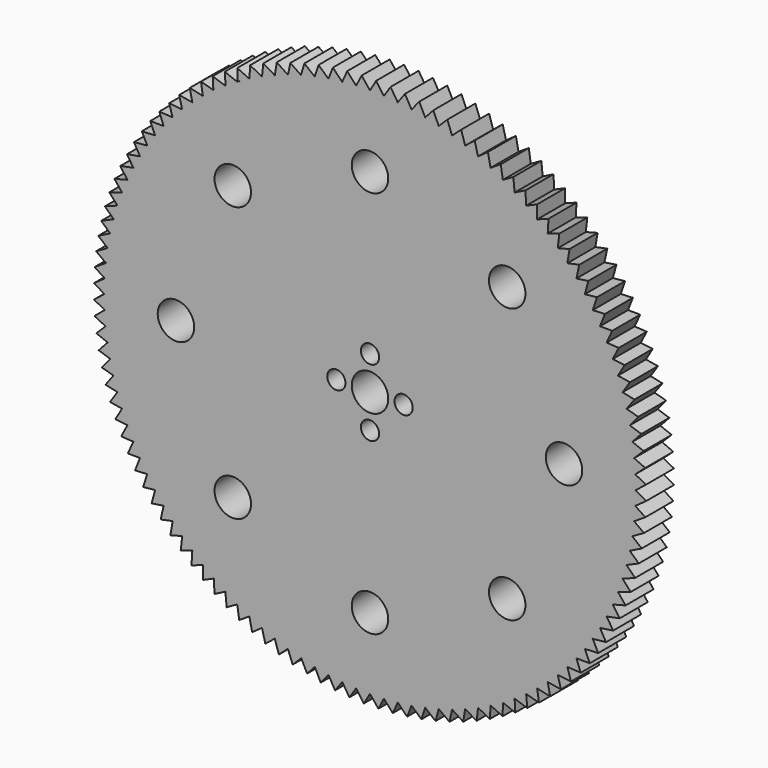
from build123d import *

# Parameters (mm, degrees)
F1_DEPTH = 6.096
F2_D     = 6.35
F3_D     = 3.175
F4_D     = 6.35


with BuildPart() as f1:
    # F0 (on Front) → F1 (new body)
    with BuildSketch(Plane.XZ):
        with BuildLine():
            ThreePointArc((46.1647385329, -2.4193914277), (46.2122513144, -1.2101103885), (46.2280925271, 0))
            ThreePointArc((46.2280925271, 0), (46.2122513144, 1.2101103885), (46.1647385329, 2.4193914277))
            ThreePointArc((46.1647385329, 2.4193914277), (46.0855867457, 3.6270143369), (45.9748501993, 4.8321514717))
            ThreePointArc((45.9748501993, 4.8321514717), (45.8326047871, 6.0339768912), (45.658947997, 7.2316669243))
            ThreePointArc((45.658947997, 7.2316669243), (45.4539988446, 8.4244007342), (45.2178977919, 9.6113608806))
            ThreePointArc((45.2178977919, 9.6113608806), (44.9508066507, 10.7917338804), (44.652908472, 11.9647107648))
            ThreePointArc((44.652908472, 11.9647107648), (44.3244074203, 13.1294876341), (43.9655286338, 14.2852662084))
            ThreePointArc((43.9655286338, 14.2852662084), (43.5765180701, 15.4312543748), (43.1576423376, 16.5666667303))
            ThreePointArc((43.1576423376, 16.5666667303), (42.7091885128, 17.69072512), (42.2314639436, 18.8026591703))
            ThreePointArc((42.2314639436, 18.8026591703), (41.7247960385, 19.9017068172), (41.1895320424, 20.9871148284))
            ThreePointArc((41.1895320424, 20.9871148284), (40.6260387985, 22.0581393194), (40.034702497, 23.1140462636))
            ThreePointArc((40.034702497, 23.1140462636), (39.4159284101, 24.154111995), (38.7701406147, 25.1776237046))
            ThreePointArc((38.7701406147, 25.1776237046), (38.0977817016, 26.1838799285), (37.399312472, 27.172191029))
            ThreePointArc((37.399312472, 27.172191029), (36.6752116217, 28.1418796672), (35.9259754133, 29.0922812667))
            ThreePointArc((35.9259754133, 29.0922812667), (35.1521173359, 30.0227444698), (34.3541677532, 30.9326315835))
            ThreePointArc((34.3541677532, 30.9326315835), (33.53267354, 31.8213190166), (32.6881977072, 32.6881977072))
            ThreePointArc((32.6881977072, 32.6881977072), (31.8213190166, 33.53267354), (30.9326315835, 34.3541677532))
            ThreePointArc((30.9326315835, 34.3541677532), (30.0227444698, 35.1521173359), (29.0922812667, 35.9259754133))
            ThreePointArc((29.0922812667, 35.9259754133), (28.1418796672, 36.6752116217), (27.172191029, 37.399312472))
            ThreePointArc((27.172191029, 37.399312472), (26.1838799285, 38.0977817016), (25.1776237046, 38.7701406147))
            ThreePointArc((25.1776237046, 38.7701406147), (24.154111995, 39.4159284101), (23.1140462636, 40.034702497))
            ThreePointArc((23.1140462636, 40.034702497), (22.0581393194, 40.6260387985), (20.9871148284, 41.1895320424))
            ThreePointArc((20.9871148284, 41.1895320424), (19.9017068172, 41.7247960385), (18.8026591703, 42.2314639436))
            ThreePointArc((18.8026591703, 42.2314639436), (17.69072512, 42.7091885128), (16.5666667303, 43.1576423376))
            ThreePointArc((16.5666667303, 43.1576423376), (15.4312543748, 43.5765180701), (14.2852662084, 43.9655286338))
            ThreePointArc((14.2852662084, 43.9655286338), (13.1294876341, 44.3244074203), (11.9647107648, 44.652908472))
            ThreePointArc((11.9647107648, 44.652908472), (10.7917338804, 44.9508066507), (9.6113608806, 45.2178977919))
            ThreePointArc((9.6113608806, 45.2178977919), (8.4244007342, 45.4539988446), (7.2316669243, 45.658947997))
            ThreePointArc((7.2316669243, 45.658947997), (6.0339768912, 45.8326047871), (4.8321514717, 45.9748501993))
            ThreePointArc((4.8321514717, 45.9748501993), (3.6270143369, 46.0855867457), (2.4193914277, 46.1647385329))
            ThreePointArc((2.4193914277, 46.1647385329), (1.2101103885, 46.2122513144), (0, 46.2280925271))
            ThreePointArc((0, 46.2280925271), (-1.2101103885, 46.2122513144), (-2.4193914277, 46.1647385329))
            ThreePointArc((-2.4193914277, 46.1647385329), (-3.6270143369, 46.0855867457), (-4.8321514717, 45.9748501993))
            ThreePointArc((-4.8321514717, 45.9748501993), (-6.0339768912, 45.8326047871), (-7.2316669243, 45.658947997))
            ThreePointArc((-7.2316669243, 45.658947997), (-8.4244007342, 45.4539988446), (-9.6113608806, 45.2178977919))
            ThreePointArc((-9.6113608806, 45.2178977919), (-10.7917338804, 44.9508066507), (-11.9647107648, 44.652908472))
            ThreePointArc((-11.9647107648, 44.652908472), (-11.9988349624, 44.6437509428), (-12.0329521511, 44.6345673355))
            ThreePointArc((-12.0329521511, 44.6345673355), (-13.156832729, 44.3162982574), (-14.2723132545, 43.9697351943))
            ThreePointArc((-14.2723132545, 43.9697351943), (-14.2787898864, 43.9676323911), (-14.2852662084, 43.9655286338))
            ThreePointArc((-14.2852662084, 43.9655286338), (-15.4312543748, 43.5765180701), (-16.5666667303, 43.1576423376))
            ThreePointArc((-16.5666667303, 43.1576423376), (-17.69072512, 42.7091885128), (-18.8026591703, 42.2314639436))
            Line((-18.8026591703, 42.2314639436), (-20.9871148284, 41.1895320424))
            Line((-20.9871148284, 41.1895320424), (-22.5210335272, 40.3712718101))
            ThreePointArc((-22.5210335272, 40.3712718101), (-22.8181604562, 40.2040805403), (-23.1140462636, 40.034702497))
            ThreePointArc((-23.1140462636, 40.034702497), (-24.1339426401, 39.4282811107), (-25.1379389445, 38.7958833424))
            ThreePointArc((-25.1379389445, 38.7958833424), (-25.1577846172, 38.7830170545), (-25.1776237046, 38.7701406147))
            ThreePointArc((-25.1776237046, 38.7701406147), (-26.1838799285, 38.0977817016), (-27.172191029, 37.399312472))
            ThreePointArc((-27.172191029, 37.399312472), (-28.1418796672, 36.6752116217), (-29.0922812667, 35.9259754133))
            ThreePointArc((-29.0922812667, 35.9259754133), (-30.0227444698, 35.1521173359), (-30.9326315835, 34.3541677532))
            ThreePointArc((-30.9326315835, 34.3541677532), (-31.8213190166, 33.53267354), (-32.6881977072, 32.6881977072))
            ThreePointArc((-32.6881977072, 32.6881977072), (-33.53267354, 31.8213190166), (-34.3541677532, 30.9326315835))
            ThreePointArc((-34.3541677532, 30.9326315835), (-35.1521173359, 30.0227444698), (-35.9259754133, 29.0922812667))
            ThreePointArc((-35.9259754133, 29.0922812667), (-36.6752116217, 28.1418796672), (-37.399312472, 27.172191029))
            ThreePointArc((-37.399312472, 27.172191029), (-38.0977817016, 26.1838799285), (-38.7701406147, 25.1776237046))
            ThreePointArc((-38.7701406147, 25.1776237046), (-39.4159284101, 24.154111995), (-40.034702497, 23.1140462636))
            ThreePointArc((-40.034702497, 23.1140462636), (-40.6260387985, 22.0581393194), (-41.1895320424, 20.9871148284))
            ThreePointArc((-41.1895320424, 20.9871148284), (-41.7247960385, 19.9017068172), (-42.2314639436, 18.8026591703))
            ThreePointArc((-42.2314639436, 18.8026591703), (-42.7091885128, 17.69072512), (-43.1576423376, 16.5666667303))
            ThreePointArc((-43.1576423376, 16.5666667303), (-43.1595677807, 16.5616499082), (-43.1614926405, 16.5566328623))
            ThreePointArc((-43.1614926405, 16.5566328623), (-43.5783115282, 15.4261888696), (-43.9655286338, 14.2852662084))
            Line((-43.9655286338, 14.2852662084), (-44.4963325502, 12.534469605))
            ThreePointArc((-44.4963325502, 12.534469605), (-44.5755308436, 12.2498403542), (-44.652908472, 11.9647107648))
            ThreePointArc((-44.652908472, 11.9647107648), (-44.9508066507, 10.7917338804), (-45.2178977919, 9.6113608806))
            ThreePointArc((-45.2178977919, 9.6113608806), (-45.219148542, 9.6054746803), (-45.2203985258, 9.5995883173))
            ThreePointArc((-45.2203985258, 9.5995883173), (-45.4550950833, 8.4184838101), (-45.658947997, 7.2316669243))
            ThreePointArc((-45.658947997, 7.2316669243), (-45.8307510282, 6.0480409128), (-45.9718759293, 4.8603664713))
            ThreePointArc((-45.9718759293, 4.8603664713), (-45.9733652288, 4.8462591997), (-45.9748501993, 4.8321514717))
            ThreePointArc((-45.9748501993, 4.8321514717), (-46.0855867457, 3.6270143369), (-46.1647385329, 2.4193914277))
            ThreePointArc((-46.1647385329, 2.4193914277), (-46.2122513144, 1.2101103885), (-46.2280925271, 0))
            ThreePointArc((-46.2280925271, 0), (-46.2122513144, -1.2101103885), (-46.1647385329, -2.4193914277))
            ThreePointArc((-46.1647385329, -2.4193914277), (-46.0855867457, -3.6270143369), (-45.9748501993, -4.8321514717))
            ThreePointArc((-45.9748501993, -4.8321514717), (-45.9710992472, -4.8677071295), (-45.9673207974, -4.9032598756))
            ThreePointArc((-45.9673207974, -4.9032598756), (-45.8279243817, -6.0694221764), (-45.658947997, -7.2316669243))
            ThreePointArc((-45.658947997, -7.2316669243), (-45.4539988446, -8.4244007342), (-45.2178977919, -9.6113608806))
            ThreePointArc((-45.2178977919, -9.6113608806), (-44.9508066507, -10.7917338804), (-44.652908472, -11.9647107648))
            ThreePointArc((-44.652908472, -11.9647107648), (-44.3244074203, -13.1294876341), (-43.9655286338, -14.2852662084))
            ThreePointArc((-43.9655286338, -14.2852662084), (-43.5765180701, -15.4312543748), (-43.1576423376, -16.5666667303))
            ThreePointArc((-43.1576423376, -16.5666667303), (-42.7091885128, -17.69072512), (-42.2314639436, -18.8026591703))
            ThreePointArc((-42.2314639436, -18.8026591703), (-41.7247960385, -19.9017068172), (-41.1895320424, -20.9871148284))
            ThreePointArc((-41.1895320424, -20.9871148284), (-40.6260387985, -22.0581393194), (-40.034702497, -23.1140462636))
            ThreePointArc((-40.034702497, -23.1140462636), (-39.4159284101, -24.154111995), (-38.7701406147, -25.1776237046))
            ThreePointArc((-38.7701406147, -25.1776237046), (-38.0977817016, -26.1838799285), (-37.399312472, -27.172191029))
            ThreePointArc((-37.399312472, -27.172191029), (-36.6752116217, -28.1418796672), (-35.9259754133, -29.0922812667))
            ThreePointArc((-35.9259754133, -29.0922812667), (-35.1521173359, -30.0227444698), (-34.3541677532, -30.9326315835))
            ThreePointArc((-34.3541677532, -30.9326315835), (-33.53267354, -31.8213190166), (-32.6881977072, -32.6881977072))
            ThreePointArc((-32.6881977072, -32.6881977072), (-31.8213190166, -33.53267354), (-30.9326315835, -34.3541677532))
            ThreePointArc((-30.9326315835, -34.3541677532), (-30.0227444698, -35.1521173359), (-29.0922812667, -35.9259754133))
            ThreePointArc((-29.0922812667, -35.9259754133), (-28.1418796672, -36.6752116217), (-27.172191029, -37.399312472))
            ThreePointArc((-27.172191029, -37.399312472), (-26.1838799285, -38.0977817016), (-25.1776237046, -38.7701406147))
            ThreePointArc((-25.1776237046, -38.7701406147), (-24.154111995, -39.4159284101), (-23.1140462636, -40.034702497))
            ThreePointArc((-23.1140462636, -40.034702497), (-22.0581393194, -40.6260387985), (-20.9871148284, -41.1895320424))
            ThreePointArc((-20.9871148284, -41.1895320424), (-19.9017068172, -41.7247960385), (-18.8026591703, -42.2314639436))
            ThreePointArc((-18.8026591703, -42.2314639436), (-17.69072512, -42.7091885128), (-16.5666667303, -43.1576423376))
            ThreePointArc((-16.5666667303, -43.1576423376), (-15.4312543748, -43.5765180701), (-14.2852662084, -43.9655286338))
            ThreePointArc((-14.2852662084, -43.9655286338), (-13.1294876341, -44.3244074203), (-11.9647107648, -44.652908472))
            ThreePointArc((-11.9647107648, -44.652908472), (-10.7917338804, -44.9508066507), (-9.6113608806, -45.2178977919))
            ThreePointArc((-9.6113608806, -45.2178977919), (-8.4244007342, -45.4539988446), (-7.2316669243, -45.658947997))
            ThreePointArc((-7.2316669243, -45.658947997), (-6.0339768912, -45.8326047871), (-4.8321514717, -45.9748501993))
            ThreePointArc((-4.8321514717, -45.9748501993), (-3.6270143369, -46.0855867457), (-2.4193914277, -46.1647385329))
            ThreePointArc((-2.4193914277, -46.1647385329), (-1.2101103885, -46.2122513144), (0, -46.2280925271))
            ThreePointArc((0, -46.2280925271), (1.2101103885, -46.2122513144), (2.4193914277, -46.1647385329))
            ThreePointArc((2.4193914277, -46.1647385329), (3.6270143369, -46.0855867457), (4.8321514717, -45.9748501993))
            ThreePointArc((4.8321514717, -45.9748501993), (6.0339768912, -45.8326047871), (7.2316669243, -45.658947997))
            ThreePointArc((7.2316669243, -45.658947997), (8.4244007342, -45.4539988446), (9.6113608806, -45.2178977919))
            ThreePointArc((9.6113608806, -45.2178977919), (10.7917338804, -44.9508066507), (11.9647107648, -44.652908472))
            ThreePointArc((11.9647107648, -44.652908472), (13.1294876341, -44.3244074203), (14.2852662084, -43.9655286338))
            ThreePointArc((14.2852662084, -43.9655286338), (15.4312543748, -43.5765180701), (16.5666667303, -43.1576423376))
            ThreePointArc((16.5666667303, -43.1576423376), (17.69072512, -42.7091885128), (18.8026591703, -42.2314639436))
            ThreePointArc((18.8026591703, -42.2314639436), (19.9017068172, -41.7247960385), (20.9871148284, -41.1895320424))
            ThreePointArc((20.9871148284, -41.1895320424), (22.0581393194, -40.6260387985), (23.1140462636, -40.034702497))
            ThreePointArc((23.1140462636, -40.034702497), (24.154111995, -39.4159284101), (25.1776237046, -38.7701406147))
            ThreePointArc((25.1776237046, -38.7701406147), (26.1838799285, -38.0977817016), (27.172191029, -37.399312472))
            ThreePointArc((27.172191029, -37.399312472), (28.1418796672, -36.6752116217), (29.0922812667, -35.9259754133))
            ThreePointArc((29.0922812667, -35.9259754133), (30.0227444698, -35.1521173359), (30.9326315835, -34.3541677532))
            ThreePointArc((30.9326315835, -34.3541677532), (31.8213190166, -33.53267354), (32.6881977072, -32.6881977072))
            ThreePointArc((32.6881977072, -32.6881977072), (33.53267354, -31.8213190166), (34.3541677532, -30.9326315835))
            ThreePointArc((34.3541677532, -30.9326315835), (35.1521173359, -30.0227444698), (35.9259754133, -29.0922812667))
            ThreePointArc((35.9259754133, -29.0922812667), (36.6752116217, -28.1418796672), (37.399312472, -27.172191029))
            ThreePointArc((37.399312472, -27.172191029), (38.0977817016, -26.1838799285), (38.7701406147, -25.1776237046))
            ThreePointArc((38.7701406147, -25.1776237046), (39.4159284101, -24.154111995), (40.034702497, -23.1140462636))
            ThreePointArc((40.034702497, -23.1140462636), (40.6260387985, -22.0581393194), (41.1895320424, -20.9871148284))
            ThreePointArc((41.1895320424, -20.9871148284), (41.7247960385, -19.9017068172), (42.2314639436, -18.8026591703))
            ThreePointArc((42.2314639436, -18.8026591703), (42.7091885128, -17.69072512), (43.1576423376, -16.5666667303))
            ThreePointArc((43.1576423376, -16.5666667303), (43.5765180701, -15.4312543748), (43.9655286338, -14.2852662084))
            ThreePointArc((43.9655286338, -14.2852662084), (44.3244074203, -13.1294876341), (44.652908472, -11.9647107648))
            ThreePointArc((44.652908472, -11.9647107648), (44.9508066507, -10.7917338804), (45.2178977919, -9.6113608806))
            ThreePointArc((45.2178977919, -9.6113608806), (45.4539988446, -8.4244007342), (45.658947997, -7.2316669243))
            ThreePointArc((45.658947997, -7.2316669243), (45.8326047871, -6.0339768912), (45.9748501993, -4.8321514717))
            ThreePointArc((45.9748501993, -4.8321514717), (46.0855867457, -3.6270143369), (46.1647385329, -2.4193914277))
        make_face()
        with BuildLine():
            Line((48.0560171727, -1.0670666946), (46.2280925271, 0))
            ThreePointArc((46.2280925271, 0), (46.2122513144, -1.2101103885), (46.1647385329, -2.4193914277))
            Line((46.1647385329, -2.4193914277), (48.0560171727, -1.0670666946))
        make_face()
        with BuildLine():
            ThreePointArc((46.1647385329, 2.4193914277), (46.2122513144, 1.2101103885), (46.2280925271, 0))
            Line((46.2280925271, 0), (48.0460040271, 1.4494532952))
            Line((48.0460040271, 1.4494532952), (46.1647385329, 2.4193914277))
        make_face()
        with BuildLine():
            ThreePointArc((45.9748501993, 4.8321514717), (46.0855867457, 3.6270143369), (46.1647385329, 2.4193914277))
            Line((46.1647385329, 2.4193914277), (47.9043001242, 3.9620004343))
            Line((47.9043001242, 3.9620004343), (45.9748501993, 4.8321514717))
        make_face()
        with BuildLine():
            Line((47.9343121155, -3.5806619287), (46.1647385329, -2.4193914277))
            ThreePointArc((46.1647385329, -2.4193914277), (46.0855867457, -3.6270143369), (45.9748501993, -4.8321514717))
            Line((45.9748501993, -4.8321514717), (47.9343121155, -3.5806619287))
        make_face()
        with BuildLine():
            ThreePointArc((45.658947997, 7.2316669243), (45.8326047871, 6.0339768912), (45.9748501993, 4.8321514717))
            Line((45.9748501993, 4.8321514717), (47.6312938644, 6.4636880055))
            Line((47.6312938644, 6.4636880055), (45.658947997, 7.2316669243))
        make_face()
        with BuildLine():
            Line((47.6812224406, -6.0844428174), (45.9748501993, -4.8321514717))
            ThreePointArc((45.9748501993, -4.8321514717), (45.8326047871, -6.0339768912), (45.658947997, -7.2316669243))
            Line((45.658947997, -7.2316669243), (47.6812224406, -6.0844428174))
        make_face()
        with BuildLine():
            ThreePointArc((45.2178977919, 9.6113608806), (45.4539988446, 8.4244007342), (45.658947997, 7.2316669243))
            Line((45.658947997, 7.2316669243), (47.2277335389, 8.9476590572))
            Line((47.2277335389, 8.9476590572), (45.2178977919, 9.6113608806))
        make_face()
        with BuildLine():
            Line((47.2974418494, -8.5715466712), (45.658947997, -7.2316669243))
            ThreePointArc((45.658947997, -7.2316669243), (45.4539988446, -8.4244007342), (45.2178977919, -9.6113608806))
            Line((45.2178977919, -9.6113608806), (47.2974418494, -8.5715466712))
        make_face()
        with BuildLine():
            ThreePointArc((44.652908472, 11.9647107648), (44.9508066507, 10.7917338804), (45.2178977919, 9.6113608806))
            Line((45.2178977919, 9.6113608806), (46.6947252786, 11.4071051974))
            Line((46.6947252786, 11.4071051974), (44.652908472, 11.9647107648))
        make_face()
        with BuildLine():
            Line((46.7840222576, -11.0351565115), (45.2178977919, -9.6113608806))
            ThreePointArc((45.2178977919, -9.6113608806), (44.9508066507, -10.7917338804), (44.652908472, -11.9647107648))
            Line((44.652908472, -11.9647107648), (46.7840222576, -11.0351565115))
        make_face()
        with BuildLine():
            ThreePointArc((43.9655286338, 14.2852662084), (44.3244074203, 13.1294876341), (44.652908472, 11.9647107648))
            Line((44.652908472, 11.9647107648), (46.033730022, 13.8352852551))
            Line((46.033730022, 13.8352852551), (43.9655286338, 14.2852662084))
        make_face()
        with BuildLine():
            Line((46.1423709127, -13.4685197547), (44.652908472, -11.9647107648))
            ThreePointArc((44.652908472, -11.9647107648), (44.3244074203, -13.1294876341), (43.9655286338, -14.2852662084))
            Line((43.9655286338, -14.2852662084), (46.1423709127, -13.4685197547))
        make_face()
        with BuildLine():
            ThreePointArc((43.1576423376, 16.5666667303), (43.5765180701, 15.4312543748), (43.9655286338, 14.2852662084))
            Line((43.9655286338, 14.2852662084), (45.2465595112, 16.2255437577))
            Line((45.2465595112, 16.2255437577), (43.1576423376, 16.5666667303))
        make_face()
        with BuildLine():
            Line((45.3742465365, -15.8649667215), (43.9655286338, -14.2852662084))
            ThreePointArc((43.9655286338, -14.2852662084), (43.5765180701, -15.4312543748), (43.1576423376, -16.5666667303))
            Line((43.1576423376, -16.5666667303), (45.3742465365, -15.8649667215))
        make_face()
        with BuildLine():
            ThreePointArc((42.2314639436, 18.8026591703), (42.7091885128, 17.69072512), (43.1576423376, 16.5666667303))
            Line((43.1576423376, 16.5666667303), (44.3353713258, 18.5713291726))
            Line((44.3353713258, 18.5713291726), (42.2314639436, 18.8026591703))
        make_face()
        with BuildLine():
            Line((44.4817545044, -18.2179289173), (43.1576423376, -16.5666667303))
            ThreePointArc((43.1576423376, -16.5666667303), (42.7091885128, -17.69072512), (42.2314639436, -18.8026591703))
            Line((42.2314639436, -18.8026591703), (44.4817545044, -18.2179289173))
        make_face()
        with BuildLine():
            ThreePointArc((41.1895320424, 20.9871148284), (41.7247960385, 19.9017068172), (42.2314639436, 18.8026591703))
            Line((42.2314639436, 18.8026591703), (43.3026629693, 20.8662118651))
            Line((43.3026629693, 20.8662118651), (41.1895320424, 20.9871148284))
        make_face()
        with BuildLine():
            Line((43.4673410752, -20.5209570362), (42.2314639436, -18.8026591703))
            ThreePointArc((42.2314639436, -18.8026591703), (41.7247960385, -19.9017068172), (41.1895320424, -20.9871148284))
            Line((41.1895320424, -20.9871148284), (43.4673410752, -20.5209570362))
        make_face()
        with BuildLine():
            ThreePointArc((40.034702497, 23.1140462636), (40.6260387985, 22.0581393194), (41.1895320424, 20.9871148284))
            Line((41.1895320424, 20.9871148284), (42.1512650235, 23.1039017213))
            Line((42.1512650235, 23.1039017213), (40.034702497, 23.1140462636))
        make_face()
        with BuildLine():
            Line((42.3337866854, -22.7677386383), (41.1895320424, -20.9871148284))
            ThreePointArc((41.1895320424, -20.9871148284), (40.6260387985, -22.0581393194), (40.034702497, -23.1140462636))
            Line((40.034702497, -23.1140462636), (42.3337866854, -22.7677386383))
        make_face()
        with BuildLine():
            ThreePointArc((38.7701406147, 25.1776237046), (39.4159284101, 24.154111995), (40.034702497, 23.1140462636))
            Line((40.034702497, 23.1140462636), (40.8843333902, 25.2782653888))
            Line((40.8843333902, 25.2782653888), (38.7701406147, 25.1776237046))
        make_face()
        with BuildLine():
            Line((41.0841983289, -24.9521154514), (40.034702497, -23.1140462636))
            ThreePointArc((40.034702497, -23.1140462636), (39.4159284101, -24.154111995), (38.7701406147, -25.1776237046))
            Line((38.7701406147, -25.1776237046), (41.0841983289, -24.9521154514))
        make_face()
        with BuildLine():
            ThreePointArc((37.399312472, 27.172191029), (38.0977817016, 26.1838799285), (38.7701406147, 25.1776237046))
            Line((38.7701406147, 25.1776237046), (39.5053406409, 27.383343088))
            Line((39.5053406409, 27.383343088), (37.399312472, 27.172191029))
        make_face()
        with BuildLine():
            Line((39.7220010406, -27.0681002504), (38.7701406147, -25.1776237046))
            ThreePointArc((38.7701406147, -25.1776237046), (38.0977817016, -26.1838799285), (37.399312472, -27.172191029))
            Line((37.399312472, -27.172191029), (39.7220010406, -27.0681002504))
        make_face()
        with BuildLine():
            ThreePointArc((35.9259754133, 29.0922812667), (36.6752116217, 28.1418796672), (37.399312472, 27.172191029))
            Line((37.399312472, 27.172191029), (38.0180664989, 29.4133649471))
            Line((38.0180664989, 29.4133649471), (35.9259754133, 29.0922812667))
        make_face()
        with BuildLine():
            Line((38.2509285084, -29.109893268), (37.399312472, -27.172191029))
            ThreePointArc((37.399312472, -27.172191029), (36.6752116217, -28.1418796672), (35.9259754133, -29.0922812667))
            Line((35.9259754133, -29.0922812667), (38.2509285084, -29.109893268))
        make_face()
        with BuildLine():
            ThreePointArc((34.3541677532, 30.9326315835), (35.1521173359, 30.0227444698), (35.9259754133, 29.0922812667))
            Line((35.9259754133, 29.0922812667), (36.4265874793, 31.3627668174))
            Line((36.4265874793, 31.3627668174), (34.3541677532, 30.9326315835))
        make_face()
        with BuildLine():
            Line((36.6750128399, -31.0718980917), (35.9259754133, -29.0922812667))
            ThreePointArc((35.9259754133, -29.0922812667), (35.1521173359, -30.0227444698), (34.3541677532, -30.9326315835))
            Line((34.3541677532, -30.9326315835), (36.6750128399, -31.0718980917))
        make_face()
        with BuildLine():
            ThreePointArc((32.6881977072, 32.6881977072), (33.53267354, 31.8213190166), (34.3541677532, 30.9326315835))
            Line((34.3541677532, 30.9326315835), (34.7352657153, 33.2262055239))
            Line((34.7352657153, 33.2262055239), (32.6881977072, 32.6881977072))
        make_face()
        with BuildLine():
            Line((34.9985735106, -32.9487370024), (34.3541677532, -30.9326315835))
            ThreePointArc((34.3541677532, -30.9326315835), (33.53267354, -31.8213190166), (32.6881977072, -32.6881977072))
            Line((32.6881977072, -32.6881977072), (34.9985735106, -32.9487370024))
        make_face()
        with BuildLine():
            ThreePointArc((30.9326315835, 34.3541677532), (31.8213190166, 33.53267354), (32.6881977072, 32.6881977072))
            Line((32.6881977072, 32.6881977072), (32.9487370024, 34.9985735106))
            Line((32.9487370024, 34.9985735106), (30.9326315835, 34.3541677532))
        make_face()
        with BuildLine():
            Line((33.2262055239, -34.7352657153), (32.6881977072, -32.6881977072))
            ThreePointArc((32.6881977072, -32.6881977072), (31.8213190166, -33.53267354), (30.9326315835, -34.3541677532))
            Line((30.9326315835, -34.3541677532), (33.2262055239, -34.7352657153))
        make_face()
        with BuildLine():
            ThreePointArc((29.0922812667, 35.9259754133), (30.0227444698, 35.1521173359), (30.9326315835, 34.3541677532))
            Line((30.9326315835, 34.3541677532), (31.0718980917, 36.6750128399))
            Line((31.0718980917, 36.6750128399), (29.0922812667, 35.9259754133))
        make_face()
        with BuildLine():
            Line((31.3627668174, -36.4265874793), (30.9326315835, -34.3541677532))
            ThreePointArc((30.9326315835, -34.3541677532), (30.0227444698, -35.1521173359), (29.0922812667, -35.9259754133))
            Line((29.0922812667, -35.9259754133), (31.3627668174, -36.4265874793))
        make_face()
        with BuildLine():
            ThreePointArc((27.172191029, 37.399312472), (28.1418796672, 36.6752116217), (29.0922812667, 35.9259754133))
            Line((29.0922812667, 35.9259754133), (29.109893268, 38.2509285084))
            Line((29.109893268, 38.2509285084), (27.172191029, 37.399312472))
        make_face()
        with BuildLine():
            Line((29.4133649471, -38.0180664989), (29.0922812667, -35.9259754133))
            ThreePointArc((29.0922812667, -35.9259754133), (28.1418796672, -36.6752116217), (27.172191029, -37.399312472))
            Line((27.172191029, -37.399312472), (29.4133649471, -38.0180664989))
        make_face()
        with BuildLine():
            ThreePointArc((25.1776237046, 38.7701406147), (26.1838799285, 38.0977817016), (27.172191029, 37.399312472))
            Line((27.172191029, 37.399312472), (27.0681002504, 39.7220010406))
            Line((27.0681002504, 39.7220010406), (25.1776237046, 38.7701406147))
        make_face()
        with BuildLine():
            Line((27.383343088, -39.5053406409), (27.172191029, -37.399312472))
            ThreePointArc((27.172191029, -37.399312472), (26.1838799285, -38.0977817016), (25.1776237046, -38.7701406147))
            Line((25.1776237046, -38.7701406147), (27.383343088, -39.5053406409))
        make_face()
        with BuildLine():
            ThreePointArc((23.1140462636, 40.034702497), (24.154111995, 39.4159284101), (25.1776237046, 38.7701406147))
            Line((25.1776237046, 38.7701406147), (24.9521154514, 41.0841983289))
            Line((24.9521154514, 41.0841983289), (23.1140462636, 40.034702497))
        make_face()
        with BuildLine():
            Line((25.2782653888, -40.8843333902), (25.1776237046, -38.7701406147))
            ThreePointArc((25.1776237046, -38.7701406147), (24.154111995, -39.4159284101), (23.1140462636, -40.034702497))
            Line((23.1140462636, -40.034702497), (25.2782653888, -40.8843333902))
        make_face()
        with BuildLine():
            ThreePointArc((20.9871148284, 41.1895320424), (22.0581393194, 40.6260387985), (23.1140462636, 40.034702497))
            Line((23.1140462636, 40.034702497), (22.7677386383, 42.3337866854))
            Line((22.7677386383, 42.3337866854), (20.9871148284, 41.1895320424))
        make_face()
        with BuildLine():
            Line((23.1039017213, -42.1512650235), (23.1140462636, -40.034702497))
            ThreePointArc((23.1140462636, -40.034702497), (22.0581393194, -40.6260387985), (20.9871148284, -41.1895320424))
            Line((20.9871148284, -41.1895320424), (23.1039017213, -42.1512650235))
        make_face()
        with BuildLine():
            ThreePointArc((18.8026591703, 42.2314639436), (19.9017068172, 41.7247960385), (20.9871148284, 41.1895320424))
            Line((20.9871148284, 41.1895320424), (20.5209570362, 43.4673410752))
            Line((20.5209570362, 43.4673410752), (18.8026591703, 42.2314639436))
        make_face()
        with BuildLine():
            Line((20.8662118651, -43.3026629693), (20.9871148284, -41.1895320424))
            ThreePointArc((20.9871148284, -41.1895320424), (19.9017068172, -41.7247960385), (18.8026591703, -42.2314639436))
            Line((18.8026591703, -42.2314639436), (20.8662118651, -43.3026629693))
        make_face()
        with BuildLine():
            ThreePointArc((16.5666667303, 43.1576423376), (17.69072512, 42.7091885128), (18.8026591703, 42.2314639436))
            Line((18.8026591703, 42.2314639436), (18.2179289173, 44.4817545044))
            Line((18.2179289173, 44.4817545044), (16.5666667303, 43.1576423376))
        make_face()
        with BuildLine():
            Line((18.5713291726, -44.3353713258), (18.8026591703, -42.2314639436))
            ThreePointArc((18.8026591703, -42.2314639436), (17.69072512, -42.7091885128), (16.5666667303, -43.1576423376))
            Line((16.5666667303, -43.1576423376), (18.5713291726, -44.3353713258))
        make_face()
        with BuildLine():
            ThreePointArc((14.2852662084, 43.9655286338), (15.4312543748, 43.5765180701), (16.5666667303, 43.1576423376))
            Line((16.5666667303, 43.1576423376), (15.8649667215, 45.3742465365))
            Line((15.8649667215, 45.3742465365), (14.2852662084, 43.9655286338))
        make_face()
        with BuildLine():
            Line((16.2255437577, -45.2465595112), (16.5666667303, -43.1576423376))
            ThreePointArc((16.5666667303, -43.1576423376), (15.4312543748, -43.5765180701), (14.2852662084, -43.9655286338))
            Line((14.2852662084, -43.9655286338), (16.2255437577, -45.2465595112))
        make_face()
        with BuildLine():
            ThreePointArc((11.9647107648, 44.652908472), (13.1294876341, 44.3244074203), (14.2852662084, 43.9655286338))
            Line((14.2852662084, 43.9655286338), (13.4685197547, 46.1423709127))
            Line((13.4685197547, 46.1423709127), (11.9647107648, 44.652908472))
        make_face()
        with BuildLine():
            Line((13.8352852551, -46.033730022), (14.2852662084, -43.9655286338))
            ThreePointArc((14.2852662084, -43.9655286338), (13.1294876341, -44.3244074203), (11.9647107648, -44.652908472))
            Line((11.9647107648, -44.652908472), (13.8352852551, -46.033730022))
        make_face()
        with BuildLine():
            ThreePointArc((9.6113608806, 45.2178977919), (10.7917338804, 44.9508066507), (11.9647107648, 44.652908472))
            Line((11.9647107648, 44.652908472), (11.0351565115, 46.7840222576))
            Line((11.0351565115, 46.7840222576), (9.6113608806, 45.2178977919))
        make_face()
        with BuildLine():
            Line((11.4071051974, -46.6947252786), (11.9647107648, -44.652908472))
            ThreePointArc((11.9647107648, -44.652908472), (10.7917338804, -44.9508066507), (9.6113608806, -45.2178977919))
            Line((9.6113608806, -45.2178977919), (11.4071051974, -46.6947252786))
        make_face()
        with BuildLine():
            ThreePointArc((7.2316669243, 45.658947997), (8.4244007342, 45.4539988446), (9.6113608806, 45.2178977919))
            Line((9.6113608806, 45.2178977919), (8.5715466712, 47.2974418494))
            Line((8.5715466712, 47.2974418494), (7.2316669243, 45.658947997))
        make_face()
        with BuildLine():
            Line((8.9476590572, -47.2277335389), (9.6113608806, -45.2178977919))
            ThreePointArc((9.6113608806, -45.2178977919), (8.4244007342, -45.4539988446), (7.2316669243, -45.658947997))
            Line((7.2316669243, -45.658947997), (8.9476590572, -47.2277335389))
        make_face()
        with BuildLine():
            ThreePointArc((4.8321514717, 45.9748501993), (6.0339768912, 45.8326047871), (7.2316669243, 45.658947997))
            Line((7.2316669243, 45.658947997), (6.0844428174, 47.6812224406))
            Line((6.0844428174, 47.6812224406), (4.8321514717, 45.9748501993))
        make_face()
        with BuildLine():
            Line((6.4636880055, -47.6312938644), (7.2316669243, -45.658947997))
            ThreePointArc((7.2316669243, -45.658947997), (6.0339768912, -45.8326047871), (4.8321514717, -45.9748501993))
            Line((4.8321514717, -45.9748501993), (6.4636880055, -47.6312938644))
        make_face()
        with BuildLine():
            ThreePointArc((2.4193914277, 46.1647385329), (3.6270143369, 46.0855867457), (4.8321514717, 45.9748501993))
            Line((4.8321514717, 45.9748501993), (3.5806619287, 47.9343121155))
            Line((3.5806619287, 47.9343121155), (2.4193914277, 46.1647385329))
        make_face()
        with BuildLine():
            Line((3.9620004343, -47.9043001242), (4.8321514717, -45.9748501993))
            ThreePointArc((4.8321514717, -45.9748501993), (3.6270143369, -46.0855867457), (2.4193914277, -46.1647385329))
            Line((2.4193914277, -46.1647385329), (3.9620004343, -47.9043001242))
        make_face()
        with BuildLine():
            ThreePointArc((0, 46.2280925271), (1.2101103885, 46.2122513144), (2.4193914277, 46.1647385329))
            Line((2.4193914277, 46.1647385329), (1.0670666946, 48.0560171727))
            Line((1.0670666946, 48.0560171727), (0, 46.2280925271))
        make_face()
        with BuildLine():
            Line((1.4680301538, -48.0321645737), (2.4193914277, -46.1647385329))
            ThreePointArc((2.4193914277, -46.1647385329), (1.2101103885, -46.2122513144), (0, -46.2280925271))
            Line((0, -46.2280925271), (1.4680301538, -48.0321645737))
        make_face()
        with BuildLine():
            ThreePointArc((-2.4193914277, 46.1647385329), (-1.2101103885, 46.2122513144), (0, 46.2280925271))
            Line((0, 46.2280925271), (-1.4494532952, 48.0460040271))
            Line((-1.4494532952, 48.0460040271), (-2.4193914277, 46.1647385329))
        make_face()
        with BuildLine():
            Line((-1.0670666946, -48.0560171727), (0, -46.2280925271))
            ThreePointArc((0, -46.2280925271), (-1.2101103885, -46.2122513144), (-2.4193914277, -46.1647385329))
            Line((-2.4193914277, -46.1647385329), (-1.0670666946, -48.0560171727))
        make_face()
        with BuildLine():
            ThreePointArc((-4.8321514717, 45.9748501993), (-3.6270143369, 46.0855867457), (-2.4193914277, 46.1647385329))
            Line((-2.4193914277, 46.1647385329), (-3.9620004343, 47.9043001242))
            Line((-3.9620004343, 47.9043001242), (-4.8321514717, 45.9748501993))
        make_face()
        with BuildLine():
            Line((-3.5806619287, -47.9343121155), (-2.4193914277, -46.1647385329))
            ThreePointArc((-2.4193914277, -46.1647385329), (-3.6270143369, -46.0855867457), (-4.8321514717, -45.9748501993))
            Line((-4.8321514717, -45.9748501993), (-3.5806619287, -47.9343121155))
        make_face()
        with BuildLine():
            ThreePointArc((-7.2316669243, 45.658947997), (-6.0339768912, 45.8326047871), (-4.8321514717, 45.9748501993))
            Line((-4.8321514717, 45.9748501993), (-6.4636880055, 47.6312938644))
            Line((-6.4636880055, 47.6312938644), (-7.2316669243, 45.658947997))
        make_face()
        with BuildLine():
            Line((-6.0844428174, -47.6812224406), (-4.8321514717, -45.9748501993))
            ThreePointArc((-4.8321514717, -45.9748501993), (-6.0339768912, -45.8326047871), (-7.2316669243, -45.658947997))
            Line((-7.2316669243, -45.658947997), (-6.0844428174, -47.6812224406))
        make_face()
        with BuildLine():
            ThreePointArc((-9.6113608806, 45.2178977919), (-8.4244007342, 45.4539988446), (-7.2316669243, 45.658947997))
            Line((-7.2316669243, 45.658947997), (-8.9476590572, 47.2277335389))
            Line((-8.9476590572, 47.2277335389), (-9.6113608806, 45.2178977919))
        make_face()
        with BuildLine():
            Line((-8.5715466712, -47.2974418494), (-7.2316669243, -45.658947997))
            ThreePointArc((-7.2316669243, -45.658947997), (-8.4244007342, -45.4539988446), (-9.6113608806, -45.2178977919))
            Line((-9.6113608806, -45.2178977919), (-8.5715466712, -47.2974418494))
        make_face()
        with BuildLine():
            ThreePointArc((-11.9647107648, 44.652908472), (-10.7917338804, 44.9508066507), (-9.6113608806, 45.2178977919))
            Line((-9.6113608806, 45.2178977919), (-11.4186642717, 46.6566752112))
            Line((-11.4186642717, 46.6566752112), (-12.0166529964, 44.6882207612))
            Line((-12.0166529964, 44.6882207612), (-11.9647107648, 44.652908472))
        make_face()
        with BuildLine():
            Line((-10.9506816391, -46.6911029077), (-9.6113608806, -45.2178977919))
            ThreePointArc((-9.6113608806, -45.2178977919), (-10.7917338804, -44.9508066507), (-11.9647107648, -44.652908472))
            Line((-11.9647107648, -44.652908472), (-10.9506816391, -46.6911029077))
        make_face()
        with BuildLine():
            ThreePointArc((-12.0329521511, 44.6345673355), (-11.9988349624, 44.6437509428), (-11.9647107648, 44.652908472))
            Line((-11.9647107648, 44.652908472), (-12.0166529964, 44.6882207612))
            Line((-12.0166529964, 44.6882207612), (-12.0329521511, 44.6345673355))
        make_face()
        with BuildLine():
            Line((-13.4685197547, -46.1423709127), (-11.9647107648, -44.652908472))
            ThreePointArc((-11.9647107648, -44.652908472), (-13.1294876341, -44.3244074203), (-14.2852662084, -43.9655286338))
            Line((-14.2852662084, -43.9655286338), (-13.4685197547, -46.1423709127))
        make_face()
        with BuildLine():
            ThreePointArc((-14.2723132545, 43.9697351943), (-13.156832729, 44.3162982574), (-12.0329521511, 44.6345673355))
            Line((-12.0329521511, 44.6345673355), (-12.0166529964, 44.6882207612))
            Line((-12.0166529964, 44.6882207612), (-13.8554854747, 45.9383284719))
            Line((-13.8554854747, 45.9383284719), (-14.2723132545, 43.9697351943))
        make_face()
        with BuildLine():
            Line((-15.8649667215, -45.3742465365), (-14.2852662084, -43.9655286338))
            ThreePointArc((-14.2852662084, -43.9655286338), (-15.4312543748, -43.5765180701), (-16.5666667303, -43.1576423376))
            Line((-16.5666667303, -43.1576423376), (-15.8649667215, -45.3742465365))
        make_face()
        with BuildLine():
            Line((-18.2179289173, -44.4817545044), (-16.5666667303, -43.1576423376))
            ThreePointArc((-16.5666667303, -43.1576423376), (-17.69072512, -42.7091885128), (-18.8026591703, -42.2314639436))
            Line((-18.8026591703, -42.2314639436), (-18.2179289173, -44.4817545044))
        make_face()
        with BuildLine():
            ThreePointArc((-16.5666667303, 43.1576423376), (-15.4312543748, 43.5765180701), (-14.2852662084, 43.9655286338))
            Line((-14.2852662084, 43.9655286338), (-16.222037375, 45.2758148313))
            Line((-16.222037375, 45.2758148313), (-16.5666667303, 43.1576423376))
        make_face()
        with BuildLine():
            Line((-20.5209570362, -43.4673410752), (-18.8026591703, -42.2314639436))
            ThreePointArc((-18.8026591703, -42.2314639436), (-19.9017068172, -41.7247960385), (-20.9871148284, -41.1895320424))
            Line((-20.9871148284, -41.1895320424), (-20.5209570362, -43.4673410752))
        make_face()
        with BuildLine():
            ThreePointArc((-18.8026591703, 42.2314639436), (-17.69072512, 42.7091885128), (-16.5666667303, 43.1576423376))
            Line((-16.5666667303, 43.1576423376), (-18.5713291726, 44.3353713258))
            Line((-18.5713291726, 44.3353713258), (-18.8026591703, 42.2314639436))
        make_face()
        with BuildLine():
            Line((-22.7677386383, -42.3337866854), (-20.9871148284, -41.1895320424))
            ThreePointArc((-20.9871148284, -41.1895320424), (-22.0581393194, -40.6260387985), (-23.1140462636, -40.034702497))
            Line((-23.1140462636, -40.034702497), (-22.7677386383, -42.3337866854))
        make_face()
        with BuildLine():
            Line((-20.9871148284, 41.1895320424), (-18.8026591703, 42.2314639436))
            ThreePointArc((-18.8026591703, 42.2314639436), (-19.9017068172, 41.7247960385), (-20.9871148284, 41.1895320424))
        make_face()
        with BuildLine():
            ThreePointArc((-20.9871148284, 41.1895320424), (-19.9017068172, 41.7247960385), (-18.8026591703, 42.2314639436))
            Line((-18.8026591703, 42.2314639436), (-20.8662118651, 43.3026629693))
            Line((-20.8662118651, 43.3026629693), (-20.9871148284, 41.1895320424))
        make_face()
        with BuildLine():
            Line((-24.9521154514, -41.0841983289), (-23.1140462636, -40.034702497))
            ThreePointArc((-23.1140462636, -40.034702497), (-24.154111995, -39.4159284101), (-25.1776237046, -38.7701406147))
            Line((-25.1776237046, -38.7701406147), (-24.9521154514, -41.0841983289))
        make_face()
        with BuildLine():
            Line((-22.5210335272, 40.3712718101), (-20.9871148284, 41.1895320424))
            ThreePointArc((-20.9871148284, 41.1895320424), (-21.7579211044, 40.7876134128), (-22.5210335272, 40.3712718101))
        make_face()
        with BuildLine():
            ThreePointArc((-22.5210335272, 40.3712718101), (-21.7579211044, 40.7876134128), (-20.9871148284, 41.1895320424))
            Line((-20.9871148284, 41.1895320424), (-23.1039017213, 42.1512650235))
            Line((-23.1039017213, 42.1512650235), (-23.0772718787, 40.0745496154))
            Line((-23.0772718787, 40.0745496154), (-22.5210335272, 40.3712718101))
        make_face()
        with BuildLine():
            Line((-27.0681002504, -39.7220010406), (-25.1776237046, -38.7701406147))
            ThreePointArc((-25.1776237046, -38.7701406147), (-26.1838799285, -38.0977817016), (-27.172191029, -37.399312472))
            Line((-27.172191029, -37.399312472), (-27.0681002504, -39.7220010406))
        make_face()
        with BuildLine():
            Line((-29.109893268, -38.2509285084), (-27.172191029, -37.399312472))
            ThreePointArc((-27.172191029, -37.399312472), (-28.1418796672, -36.6752116217), (-29.0922812667, -35.9259754133))
            Line((-29.0922812667, -35.9259754133), (-29.109893268, -38.2509285084))
        make_face()
        with BuildLine():
            ThreePointArc((-25.1379389445, 38.7958833424), (-24.1339426401, 39.4282811107), (-23.1140462636, 40.034702497))
            Line((-23.1140462636, 40.034702497), (-25.2782653888, 40.8843333902))
            Line((-25.2782653888, 40.8843333902), (-25.1379389445, 38.7958833424))
        make_face()
        with BuildLine():
            Line((-31.0718980917, -36.6750128399), (-29.0922812667, -35.9259754133))
            ThreePointArc((-29.0922812667, -35.9259754133), (-30.0227444698, -35.1521173359), (-30.9326315835, -34.3541677532))
            Line((-30.9326315835, -34.3541677532), (-31.0718980917, -36.6750128399))
        make_face()
        with BuildLine():
            Line((-32.9487370024, -34.9985735106), (-30.9326315835, -34.3541677532))
            ThreePointArc((-30.9326315835, -34.3541677532), (-31.8213190166, -33.53267354), (-32.6881977072, -32.6881977072))
            Line((-32.6881977072, -32.6881977072), (-32.9487370024, -34.9985735106))
        make_face()
        with BuildLine():
            ThreePointArc((-27.172191029, 37.399312472), (-26.1838799285, 38.0977817016), (-25.1776237046, 38.7701406147))
            Line((-25.1776237046, 38.7701406147), (-27.383343088, 39.5053406409))
            Line((-27.383343088, 39.5053406409), (-27.2586311617, 37.4231772777))
            Line((-27.2586311617, 37.4231772777), (-27.172191029, 37.399312472))
        make_face()
        with BuildLine():
            Line((-34.7352657153, -33.2262055239), (-32.6881977072, -32.6881977072))
            ThreePointArc((-32.6881977072, -32.6881977072), (-33.53267354, -31.8213190166), (-34.3541677532, -30.9326315835))
            Line((-34.3541677532, -30.9326315835), (-34.7352657153, -33.2262055239))
        make_face()
        with BuildLine():
            ThreePointArc((-29.0922812667, 35.9259754133), (-28.1418796672, 36.6752116217), (-27.172191029, 37.399312472))
            Line((-27.172191029, 37.399312472), (-27.2586311617, 37.4231772777))
            Line((-27.2586311617, 37.4231772777), (-29.4133649471, 38.0180664989))
            Line((-29.4133649471, 38.0180664989), (-29.0922812667, 35.9259754133))
        make_face()
        with BuildLine():
            Line((-36.4265874793, -31.3627668174), (-34.3541677532, -30.9326315835))
            ThreePointArc((-34.3541677532, -30.9326315835), (-35.1521173359, -30.0227444698), (-35.9259754133, -29.0922812667))
            Line((-35.9259754133, -29.0922812667), (-36.4265874793, -31.3627668174))
        make_face()
        with BuildLine():
            ThreePointArc((-30.9326315835, 34.3541677532), (-30.0227444698, 35.1521173359), (-29.0922812667, 35.9259754133))
            Line((-29.0922812667, 35.9259754133), (-31.3627668174, 36.4265874793))
            Line((-31.3627668174, 36.4265874793), (-30.9326315835, 34.3541677532))
        make_face()
        with BuildLine():
            Line((-38.0180664989, -29.4133649471), (-35.9259754133, -29.0922812667))
            ThreePointArc((-35.9259754133, -29.0922812667), (-36.6752116217, -28.1418796672), (-37.399312472, -27.172191029))
            Line((-37.399312472, -27.172191029), (-38.0180664989, -29.4133649471))
        make_face()
        with BuildLine():
            ThreePointArc((-32.6881977072, 32.6881977072), (-31.8213190166, 33.53267354), (-30.9326315835, 34.3541677532))
            Line((-30.9326315835, 34.3541677532), (-33.2262055239, 34.7352657153))
            Line((-33.2262055239, 34.7352657153), (-32.6881977072, 32.6881977072))
        make_face()
        with BuildLine():
            Line((-39.5053406409, -27.383343088), (-37.399312472, -27.172191029))
            ThreePointArc((-37.399312472, -27.172191029), (-38.0977817016, -26.1838799285), (-38.7701406147, -25.1776237046))
            Line((-38.7701406147, -25.1776237046), (-39.5053406409, -27.383343088))
        make_face()
        with BuildLine():
            ThreePointArc((-34.3541677532, 30.9326315835), (-33.53267354, 31.8213190166), (-32.6881977072, 32.6881977072))
            Line((-32.6881977072, 32.6881977072), (-34.9570736289, 32.9068489373))
            Line((-34.9570736289, 32.9068489373), (-34.3541677532, 30.9326315835))
        make_face()
        with BuildLine():
            Line((-40.8843333902, -25.2782653888), (-38.7701406147, -25.1776237046))
            ThreePointArc((-38.7701406147, -25.1776237046), (-39.4159284101, -24.154111995), (-40.034702497, -23.1140462636))
            Line((-40.034702497, -23.1140462636), (-40.8843333902, -25.2782653888))
        make_face()
        with BuildLine():
            ThreePointArc((-35.9259754133, 29.0922812667), (-35.1521173359, 30.0227444698), (-34.3541677532, 30.9326315835))
            Line((-34.3541677532, 30.9326315835), (-36.6750128399, 31.0718980917))
            Line((-36.6750128399, 31.0718980917), (-35.9259754133, 29.0922812667))
        make_face()
        with BuildLine():
            Line((-42.1512650235, -23.1039017213), (-40.034702497, -23.1140462636))
            ThreePointArc((-40.034702497, -23.1140462636), (-40.6260387985, -22.0581393194), (-41.1895320424, -20.9871148284))
            Line((-41.1895320424, -20.9871148284), (-42.1512650235, -23.1039017213))
        make_face()
        with BuildLine():
            ThreePointArc((-37.399312472, 27.172191029), (-36.6752116217, 28.1418796672), (-35.9259754133, 29.0922812667))
            Line((-35.9259754133, 29.0922812667), (-38.2509285084, 29.109893268))
            Line((-38.2509285084, 29.109893268), (-37.399312472, 27.172191029))
        make_face()
        with BuildLine():
            Line((-43.3026629693, -20.8662118651), (-41.1895320424, -20.9871148284))
            ThreePointArc((-41.1895320424, -20.9871148284), (-41.7247960385, -19.9017068172), (-42.2314639436, -18.8026591703))
            Line((-42.2314639436, -18.8026591703), (-43.3026629693, -20.8662118651))
        make_face()
        with BuildLine():
            ThreePointArc((-38.7701406147, 25.1776237046), (-38.0977817016, 26.1838799285), (-37.399312472, 27.172191029))
            Line((-37.399312472, 27.172191029), (-39.7220010406, 27.0681002504))
            Line((-39.7220010406, 27.0681002504), (-38.7701406147, 25.1776237046))
        make_face()
        with BuildLine():
            Line((-44.3353713258, -18.5713291726), (-42.2314639436, -18.8026591703))
            ThreePointArc((-42.2314639436, -18.8026591703), (-42.7091885128, -17.69072512), (-43.1576423376, -16.5666667303))
            Line((-43.1576423376, -16.5666667303), (-44.3353713258, -18.5713291726))
        make_face()
        with BuildLine():
            ThreePointArc((-40.034702497, 23.1140462636), (-39.4159284101, 24.154111995), (-38.7701406147, 25.1776237046))
            Line((-38.7701406147, 25.1776237046), (-41.0841983289, 24.9521154514))
            Line((-41.0841983289, 24.9521154514), (-40.034702497, 23.1140462636))
        make_face()
        with BuildLine():
            Line((-45.2465595112, -16.2255437577), (-43.1576423376, -16.5666667303))
            ThreePointArc((-43.1576423376, -16.5666667303), (-43.5765180701, -15.4312543748), (-43.9655286338, -14.2852662084))
            Line((-43.9655286338, -14.2852662084), (-45.2465595112, -16.2255437577))
        make_face()
        with BuildLine():
            ThreePointArc((-41.1895320424, 20.9871148284), (-40.6260387985, 22.0581393194), (-40.034702497, 23.1140462636))
            Line((-40.034702497, 23.1140462636), (-42.2940753691, 22.7059421529))
            Line((-42.2940753691, 22.7059421529), (-41.1895320424, 20.9871148284))
        make_face()
        with BuildLine():
            Line((-46.033730022, -13.8352852551), (-43.9655286338, -14.2852662084))
            ThreePointArc((-43.9655286338, -14.2852662084), (-44.3244074203, -13.1294876341), (-44.652908472, -11.9647107648))
            Line((-44.652908472, -11.9647107648), (-46.033730022, -13.8352852551))
        make_face()
        with BuildLine():
            ThreePointArc((-42.2314639436, 18.8026591703), (-41.7247960385, 19.9017068172), (-41.1895320424, 20.9871148284))
            Line((-41.1895320424, 20.9871148284), (-43.4673410752, 20.5209570362))
            Line((-43.4673410752, 20.5209570362), (-42.2314639436, 18.8026591703))
        make_face()
        with BuildLine():
            Line((-46.6947252786, -11.4071051974), (-44.652908472, -11.9647107648))
            ThreePointArc((-44.652908472, -11.9647107648), (-44.9508066507, -10.7917338804), (-45.2178977919, -9.6113608806))
            Line((-45.2178977919, -9.6113608806), (-46.6947252786, -11.4071051974))
        make_face()
        with BuildLine():
            ThreePointArc((-43.1576423376, 16.5666667303), (-42.7091885128, 17.69072512), (-42.2314639436, 18.8026591703))
            Line((-42.2314639436, 18.8026591703), (-44.4817545044, 18.2179289173))
            Line((-44.4817545044, 18.2179289173), (-43.1670899134, 16.5636759555))
            Line((-43.1670899134, 16.5636759555), (-43.1576423376, 16.5666667303))
        make_face()
        with BuildLine():
            Line((-47.2277335389, -8.9476590572), (-45.2178977919, -9.6113608806))
            ThreePointArc((-45.2178977919, -9.6113608806), (-45.4539988446, -8.4244007342), (-45.658947997, -7.2316669243))
            Line((-45.658947997, -7.2316669243), (-47.2277335389, -8.9476590572))
        make_face()
        with BuildLine():
            ThreePointArc((-43.1614926405, 16.5566328623), (-43.1595677807, 16.5616499082), (-43.1576423376, 16.5666667303))
            Line((-43.1576423376, 16.5666667303), (-43.1670899134, 16.5636759555))
            Line((-43.1670899134, 16.5636759555), (-43.1614926405, 16.5566328623))
        make_face()
        with BuildLine():
            Line((-47.6312938644, -6.4636880055), (-45.658947997, -7.2316669243))
            ThreePointArc((-45.658947997, -7.2316669243), (-45.8279243817, -6.0694221764), (-45.9673207974, -4.9032598756))
            Line((-45.9673207974, -4.9032598756), (-46.0207060047, -4.8773177658))
            Line((-46.0207060047, -4.8773177658), (-47.6312938644, -6.4636880055))
        make_face()
        with BuildLine():
            ThreePointArc((-43.9655286338, 14.2852662084), (-43.5783115282, 15.4261888696), (-43.1614926405, 16.5566328623))
            Line((-43.1614926405, 16.5566328623), (-43.1670899134, 16.5636759555))
            Line((-43.1670899134, 16.5636759555), (-45.3742465365, 15.8649667215))
            Line((-45.3742465365, 15.8649667215), (-43.9655286338, 14.2852662084))
        make_face()
        with BuildLine():
            Line((-46.0207060047, -4.8773177658), (-45.9673207974, -4.9032598756))
            ThreePointArc((-45.9673207974, -4.9032598756), (-45.9710992472, -4.8677071295), (-45.9748501993, -4.8321514717))
            Line((-45.9748501993, -4.8321514717), (-46.0207060047, -4.8773177658))
        make_face()
        with BuildLine():
            Line((-44.4963325502, 12.534469605), (-43.9655286338, 14.2852662084))
            ThreePointArc((-43.9655286338, 14.2852662084), (-44.2395924848, 13.4124940065), (-44.4963325502, 12.534469605))
        make_face()
        with BuildLine():
            ThreePointArc((-44.4963325502, 12.534469605), (-44.2395924848, 13.4124940065), (-43.9655286338, 14.2852662084))
            Line((-43.9655286338, 14.2852662084), (-46.1423709127, 13.4685197547))
            Line((-46.1423709127, 13.4685197547), (-44.6518212557, 12.0216077194))
            Line((-44.6518212557, 12.0216077194), (-44.4963325502, 12.534469605))
        make_face()
        with BuildLine():
            Line((-47.825456412, -3.8920833809), (-45.9748501993, -4.8321514717))
            ThreePointArc((-45.9748501993, -4.8321514717), (-46.0855867457, -3.6270143369), (-46.1647385329, -2.4193914277))
            Line((-46.1647385329, -2.4193914277), (-47.825456412, -3.8920833809))
        make_face()
        Polygon((-46.0207060047, -4.8773177658), (-45.9748501993, -4.8321514717), (-47.825456412, -3.8920833809), (-47.9043001242, -3.9620004343), align=None)
        with BuildLine():
            Line((-48.0460040271, -1.4494532952), (-46.1647385329, -2.4193914277))
            ThreePointArc((-46.1647385329, -2.4193914277), (-46.2122513144, -1.2101103885), (-46.2280925271, 0))
            Line((-46.2280925271, 0), (-48.0460040271, -1.4494532952))
        make_face()
        Polygon((-47.825456412, -3.8920833809), (-46.1647385329, -2.4193914277), (-47.8862561285, -3.8611984346), align=None)
        with BuildLine():
            ThreePointArc((-45.2178977919, 9.6113608806), (-44.9508066507, 10.7917338804), (-44.652908472, 11.9647107648))
            Line((-44.652908472, 11.9647107648), (-46.7840222576, 11.0351565115))
            Line((-46.7840222576, 11.0351565115), (-45.2278182919, 9.6064004294))
            Line((-45.2278182919, 9.6064004294), (-45.2178977919, 9.6113608806))
        make_face()
        with BuildLine():
            Line((-48.0560171727, 1.0670666946), (-46.2280925271, 0))
            ThreePointArc((-46.2280925271, 0), (-46.2122513144, 1.2101103885), (-46.1647385329, 2.4193914277))
            Line((-46.1647385329, 2.4193914277), (-48.0560171727, 1.0670666946))
        make_face()
        with BuildLine():
            ThreePointArc((-45.2203985258, 9.5995883173), (-45.219148542, 9.6054746803), (-45.2178977919, 9.6113608806))
            Line((-45.2178977919, 9.6113608806), (-45.2278182919, 9.6064004294))
            Line((-45.2278182919, 9.6064004294), (-45.2203985258, 9.5995883173))
        make_face()
        with BuildLine():
            Line((-47.9343121155, 3.5806619287), (-46.1647385329, 2.4193914277))
            ThreePointArc((-46.1647385329, 2.4193914277), (-46.0855867457, 3.6270143369), (-45.9748501993, 4.8321514717))
            Line((-45.9748501993, 4.8321514717), (-47.9343121155, 3.5806619287))
        make_face()
        with BuildLine():
            ThreePointArc((-45.658947997, 7.2316669243), (-45.4550950833, 8.4184838101), (-45.2203985258, 9.5995883173))
            Line((-45.2203985258, 9.5995883173), (-45.2278182919, 9.6064004294))
            Line((-45.2278182919, 9.6064004294), (-47.2974418494, 8.5715466712))
            Line((-47.2974418494, 8.5715466712), (-45.658947997, 7.2316669243))
        make_face()
        with BuildLine():
            ThreePointArc((-45.9718759293, 4.8603664713), (-45.8307510282, 6.0480409128), (-45.658947997, 7.2316669243))
            Line((-45.658947997, 7.2316669243), (-47.6812224406, 6.0844428174))
            Line((-47.6812224406, 6.0844428174), (-45.9718759293, 4.8603664713))
        make_face()
    extrude(amount=F1_DEPTH)

    # F2 (through all)
    with Locations(Plane(origin=(0, 0, 0), x_dir=(1, 0, 0), z_dir=(0, 1, 0))):
        with Locations((0, -33.7753295898), (23.8827645898, -23.8827645898), (33.7753295898, 0), (23.8827645898, 23.8827645898), (0, 33.7753295898), (-23.8827645898, 23.8827645898), (-33.7753295898, 0), (-23.8827645898, -23.8827645898)):
            Hole(F2_D / 2)

    # F3 (through all)
    with Locations(Plane(origin=(0, 0, 0), x_dir=(1, 0, 0), z_dir=(0, 1, 0))):
        with Locations((-5.8543900959, 0), (0, -5.8543900959), (5.8543900959, 0), (0, 5.8543900959), (0, 0)):
            Hole(F3_D / 2)

    # F4 (through all)
    with Locations(Plane(origin=(0, 0, 0), x_dir=(1, 0, 0), z_dir=(0, 1, 0))):
        with Locations((0, 0)):
            Hole(F4_D / 2)


solid = f1.part
